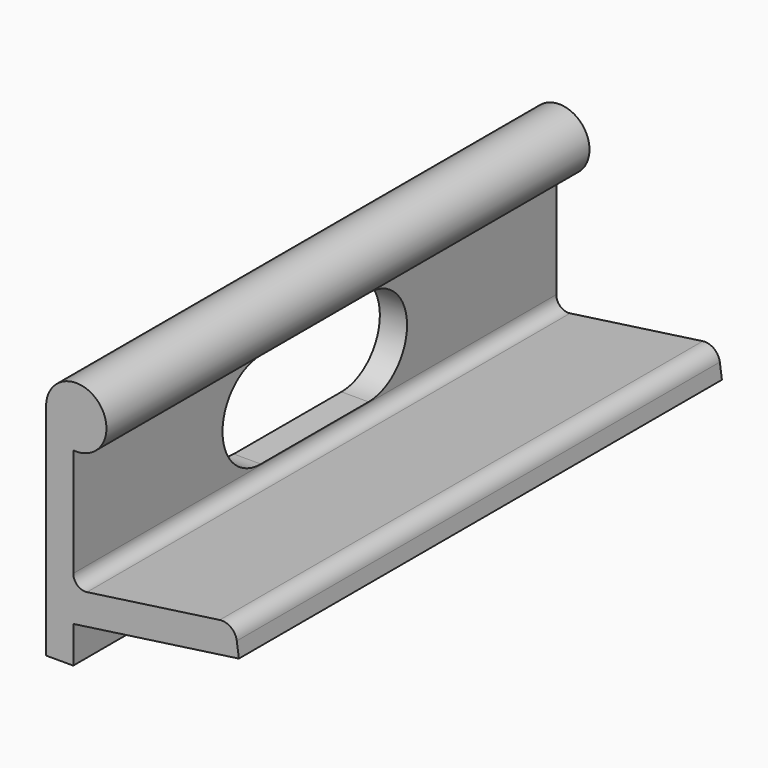
from build123d import *

# Parameters (mm, degrees)
F1_DEPTH = 50
F3_DEPTH = 5


with BuildPart() as f1:
    # F0 (on Front) → F1 (new body, symmetric)
    with BuildSketch(Plane.XZ):
        with BuildLine():
            Line((4.5, 7.11405), (0, 7.11405))
            Line((0, 7.11405), (0, -6.48595))
            Line((0, -6.48595), (4.5, -6.48595))
            Line((4.5, -6.48595), (4.5, -0.397439))
            Line((4.5, -0.397439), (31.933103, 3.458032))
            Line((31.933103, 3.458032), (31.585171, 5.933703))
            ThreePointArc((31.585171, 5.933703), (30.614038, 7.582359), (28.761568, 8.06144))
            Line((28.761568, 8.06144), (6.778346, 4.9719))
            ThreePointArc((6.778346, 4.9719), (5.187882, 5.443017), (4.5, 6.952436))
            Line((4.5, 6.952436), (4.5, 7.11405))
        make_face()
        Polygon((4.5, 23.01405), (0, 23.01405), (0, 7.11405), (4.5, 7.11405), (4.5, 11.635025), align=None)
        with BuildLine():
            ThreePointArc((4.5, 24.917402), (8.708099, 33.246442), (0, 29.89234))
            Line((0, 29.89234), (0, 23.01405))
            Line((0, 23.01405), (4.5, 23.01405))
            Line((4.5, 23.01405), (4.5, 24.917402))
        make_face()
    extrude(amount=F1_DEPTH, both=True)

    # F2 (on face) → F3 (cut)
    with BuildSketch(Plane(origin=(0, 0, 0), x_dir=(0, -1, 0), z_dir=(-1, 0, 0))):
        with BuildLine():
            Line((-11.15, 7.11234), (11.15, 7.11234))
            ThreePointArc((11.15, 7.11234), (19.1, 15.06234), (11.15, 23.01234))
            Line((11.15, 23.01234), (-11.15, 23.01234))
            ThreePointArc((-11.15, 23.01234), (-19.1, 15.06234), (-11.15, 7.11234))
        make_face()
    extrude(amount=-F3_DEPTH, mode=Mode.SUBTRACT)


solid = f1.part
